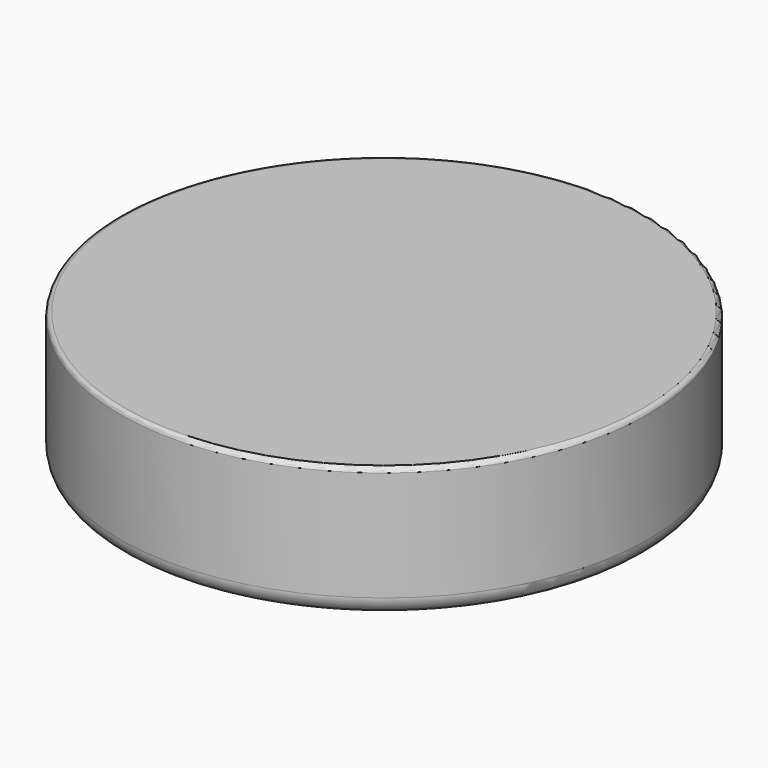
from build123d import *

# Parameters (mm, degrees)
CYLINDER_R     = 6
CYLINDER_DEPTH = 3
FILLET_R       = 0.1
FILLET001_R    = 0.4


with BuildPart() as part:
    # Cylinder → Cylinder (new body)
    with BuildSketch(Plane.XY):
        Circle(CYLINDER_R)
    extrude(amount=CYLINDER_DEPTH)

    # Fillet
    fillet_edges = [part.edges().sort_by_distance(p)[0] for p in [
        (-6, 0, 3),
    ]]
    fillet(fillet_edges, radius=FILLET_R)

    # Fillet001
    fillet001_edges = [part.edges().sort_by_distance(p)[0] for p in [
        (-6, 0, 0),
    ]]
    fillet(fillet001_edges, radius=FILLET001_R)


solid = part.part
